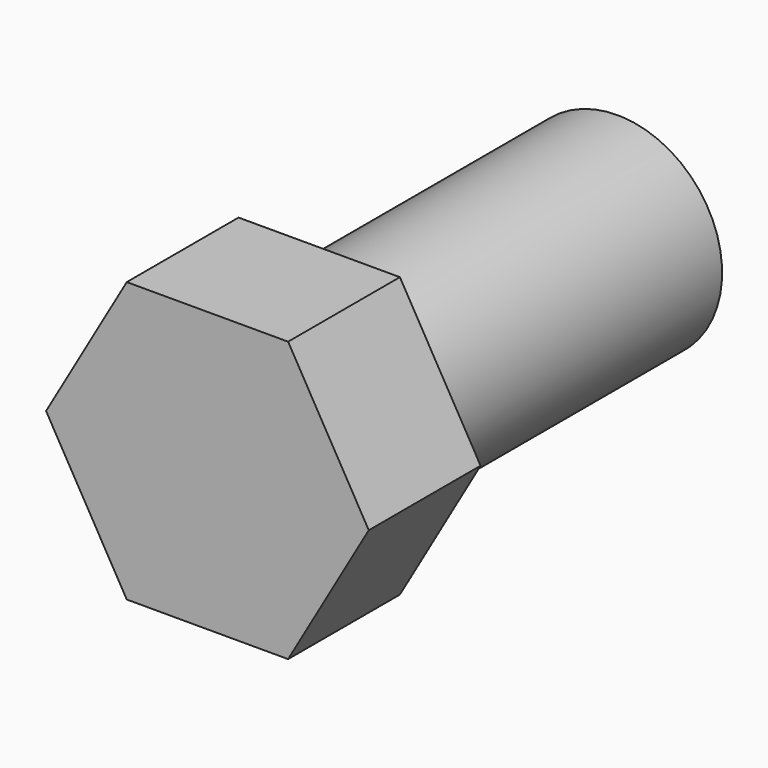
from build123d import *

# Parameters (mm, degrees)
F1_DEPTH = 9.525
F2_R     = 7.14375
F3_DEPTH = 25.4


with BuildPart() as f1:
    # F0 (on Front) → F1 (new body)
    with BuildSketch(Plane.XZ):
        Polygon((59.556728, 9.525), (48.558205, 9.525), (43.058944, 0), (48.558205, -9.525), (59.556728, -9.525), (65.055989, 0), align=None)
    extrude(amount=F1_DEPTH)

    # F2 (on face) → F3 (join)
    with BuildSketch(Plane(origin=(0, 0, 0), x_dir=(-1, 0, 0), z_dir=(0, 1, 0))):
        with Locations((-54.057466, 0)):
            Circle(F2_R)
    extrude(amount=F3_DEPTH)


solid = f1.part
